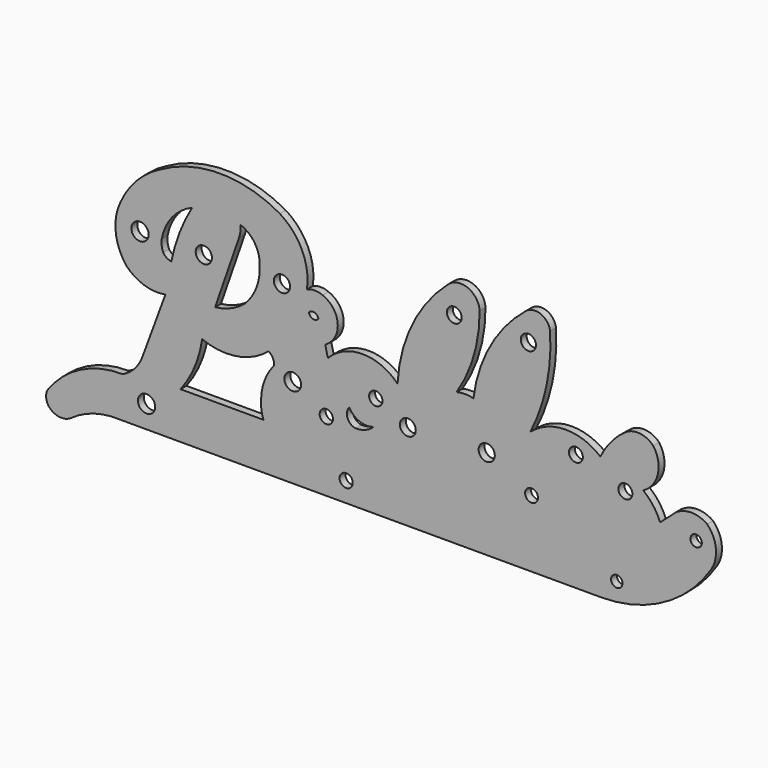
from build123d import *

# Parameters (mm, degrees)
F0_R     = 1.857944
F0_R_2   = 1.417802
F0_R_3   = 1.435008
F0_R_4   = 1.79954
F0_R_5   = 1.437898
F0_R_6   = 1.231078
F0_R_7   = 1.385876
F0_R_8   = 1.711076
F0_R_9   = 1.741872
F0_R_10  = 1.225641
F0_R_11  = 1.503057
F0_R_12  = 1.860203
F0_R_13  = 1.749094
F0_R_14  = 1.743489
F0_R_15  = 1.494291
F0_R_16  = 1.596373
F0_R_17  = 1.637338
F1_DEPTH = 1.5875


with BuildPart() as f1:
    # F0 (on Front) → F1 (new body)
    with BuildSketch(Plane.XZ):
        with BuildLine():
            ThreePointArc((-53.66773, -11.336307), (-55.326937, -14.051365), (-57.893666, -15.931901))
            ThreePointArc((-57.893666, -15.931901), (-67.036765, -18.069861), (-74.114526, -24.240148))
            ThreePointArc((-74.114526, -24.240148), (-74.286866, -26.266206), (-73.075997, -27.899734))
            ThreePointArc((-73.075997, -27.899734), (-71.073113, -28.503398), (-69.070229, -27.899734))
            ThreePointArc((-69.070229, -27.899734), (-64.027702, -25.399624), (-58.438471, -24.73772))
            Line((-58.438471, -24.73772), (45.18429, -24.73772))
            ThreePointArc((45.18429, -24.73772), (58.781301, -21.232835), (68.98967, -11.591667))
            ThreePointArc((68.98967, -11.591667), (69.918229, -7.349726), (68.045994, -3.431687))
            ThreePointArc((68.045994, -3.431687), (64.632127, -2.335808), (61.21826, -3.431687))
            ThreePointArc((61.21826, -3.431687), (59.569704, -4.921663), (57.887653, -6.373721))
            ThreePointArc((57.887653, -6.373721), (56.415132, -3.677779), (54.260449, -1.488313))
            ThreePointArc((54.260449, -1.488313), (57.420268, 2.603666), (56.419311, 7.675828))
            ThreePointArc((56.419311, 7.675828), (53.426168, 9.07563), (50.251135, 8.16047))
            ThreePointArc((50.251135, 8.16047), (47.252127, 5.362267), (45.046306, 1.904182))
            ThreePointArc((45.046306, 1.904182), (37.452408, 4.595945), (29.940231, 1.68389))
            ThreePointArc((29.940231, 1.68389), (33.446145, 11.664014), (34.19633, 22.21539))
            ThreePointArc((34.19633, 22.21539), (32.218057, 24.773224), (29.015006, 24.329893))
            ThreePointArc((29.015006, 24.329893), (21.362188, 15.304458), (17.686093, 4.056772))
            ThreePointArc((17.686093, 4.056772), (15.865209, 4.289438), (14.044325, 4.056772))
            ThreePointArc((14.044325, 4.056772), (17.781783, 12.218199), (19.015627, 21.109493))
            ThreePointArc((19.015627, 21.109493), (16.476441, 24.638923), (12.194537, 23.884173))
            ThreePointArc((12.194537, 23.884173), (4.49603, 13.798937), (1.327041, 1.513316))
            ThreePointArc((1.327041, 1.513316), (-6.168675, 4.699529), (-13.66439, 1.513316))
            ThreePointArc((-13.66439, 1.513316), (-13.969566, 2.707403), (-14.243286, 3.909091))
            ThreePointArc((-14.243286, 3.909091), (-11.554331, 8.675915), (-14.82218, 13.066161))
            ThreePointArc((-14.82218, 13.066161), (-16.506238, 13.414686), (-18.190296, 13.066161))
            ThreePointArc((-18.190296, 13.066161), (-19.245169, 20.174848), (-24.033534, 25.533742))
            ThreePointArc((-24.033534, 25.533742), (-36.905205, 28.966058), (-49.776876, 25.533742))
            ThreePointArc((-49.776876, 25.533742), (-54.871128, 21.753364), (-58.402507, 16.483446))
            ThreePointArc((-58.402507, 16.483446), (-59.389188, 10.479151), (-57.068484, 4.854257))
            ThreePointArc((-57.068484, 4.854257), (-53.21663, 2.453173), (-48.687348, 2.157214))
            Line((-48.687348, 2.157214), (-53.66773, -11.336307))
        make_face()
        with Locations((-52.743013, -19.876236)):
            Circle(F0_R, mode=Mode.SUBTRACT)
        with Locations((-9.737349, -20.453916)):
            Circle(F0_R_2, mode=Mode.SUBTRACT)
        with BuildLine():
            Line((-27.557038, -14.726465), (-45.42472, -14.726465))
            ThreePointArc((-45.42472, -14.726465), (-42.378449, -9.519133), (-40.763168, -3.706479))
            ThreePointArc((-40.763168, -3.706479), (-33.288354, -4.538409), (-26.47082, -1.362535))
            ThreePointArc((-26.47082, -1.362535), (-25.533702, -2.36198), (-25.270261, -3.706479))
            ThreePointArc((-25.270261, -3.706479), (-27.322012, -7.146587), (-28.071562, -11.08133))
            ThreePointArc((-28.071562, -11.08133), (-28.011459, -12.931727), (-27.557038, -14.726465))
        make_face(mode=Mode.SUBTRACT)
        with Locations((-14.017423, -9.698912)):
            Circle(F0_R_3, mode=Mode.SUBTRACT)
        with BuildLine():
            ThreePointArc((-7.707629, -9.877752), (-9.432556, -8.514767), (-9.070634, -6.346331))
            ThreePointArc((-9.070634, -6.346331), (-6.806754, -8.318288), (-3.804479, -8.328883))
            ThreePointArc((-3.804479, -8.328883), (-5.599664, -9.49742), (-7.707629, -9.877752))
        make_face(mode=Mode.SUBTRACT)
        with Locations((-21.248184, -5.446013)):
            Circle(F0_R_4, mode=Mode.SUBTRACT)
        with Locations((-3.355453, -2.809598)):
            Circle(F0_R_5, mode=Mode.SUBTRACT)
        with Locations((48.567833, -20.610317)):
            Circle(F0_R_6, mode=Mode.SUBTRACT)
        with Locations((30.204914, -10.292606)):
            Circle(F0_R_7, mode=Mode.SUBTRACT)
        with Locations((3.54731, -6.039364)):
            Circle(F0_R_8, mode=Mode.SUBTRACT)
        with Locations((20.543733, -5.29803)):
            Circle(F0_R_9, mode=Mode.SUBTRACT)
        with Locations((65.664125, -7.364484)):
            Circle(F0_R_10, mode=Mode.SUBTRACT)
        with Locations((50.422841, -2.925415)):
            Circle(F0_R_11, mode=Mode.SUBTRACT)
        with Locations((-54.153713, 12.35175)):
            Circle(F0_R_12, mode=Mode.SUBTRACT)
        with Locations((-40.40785, 12.398653)):
            Circle(F0_R_13, mode=Mode.SUBTRACT)
        with BuildLine():
            ThreePointArc((-32.52355, 20.67507), (-29.489381, 18.275898), (-28.37258, 14.572526))
            ThreePointArc((-28.37258, 14.572526), (-29.043298, 9.932824), (-31.584578, 5.993461))
            ThreePointArc((-31.584578, 5.993461), (-34.573317, 4.144153), (-37.97367, 3.255278))
            Line((-37.97367, 3.255278), (-32.812039, 18.142183))
            ThreePointArc((-32.812039, 18.142183), (-32.514289, 19.391143), (-32.52355, 20.67507))
        make_face(mode=Mode.SUBTRACT)
        with Locations((-23.560752, 12.398653)):
            Circle(F0_R_14, mode=Mode.SUBTRACT)
        with BuildLine():
            ThreePointArc((-17.768233, 8.914482), (-16.558831, 9.198976), (-15.701279, 8.299981))
            ThreePointArc((-15.701279, 8.299981), (-16.9498, 7.883902), (-17.768233, 8.914482))
        make_face(mode=Mode.SUBTRACT)
        with BuildLine():
            ThreePointArc((-49.487693, 12.402402), (-47.245252, 17.284471), (-42.941975, 20.500827))
            ThreePointArc((-42.941975, 20.500827), (-45.655704, 14.868968), (-47.417419, 8.870758))
            ThreePointArc((-47.417419, 8.870758), (-48.41807, 9.229162), (-49.152797, 9.997231))
            ThreePointArc((-49.152797, 9.997231), (-49.493656, 11.175671), (-49.487693, 12.402402))
        make_face(mode=Mode.SUBTRACT)
        with Locations((39.767036, 0.559673)):
            Circle(F0_R_15, mode=Mode.SUBTRACT)
        with Locations((13.554551, 18.52873)):
            Circle(F0_R_16, mode=Mode.SUBTRACT)
        with Locations((29.518481, 18.52873)):
            Circle(F0_R_17, mode=Mode.SUBTRACT)
    extrude(amount=F1_DEPTH)


solid = f1.part
